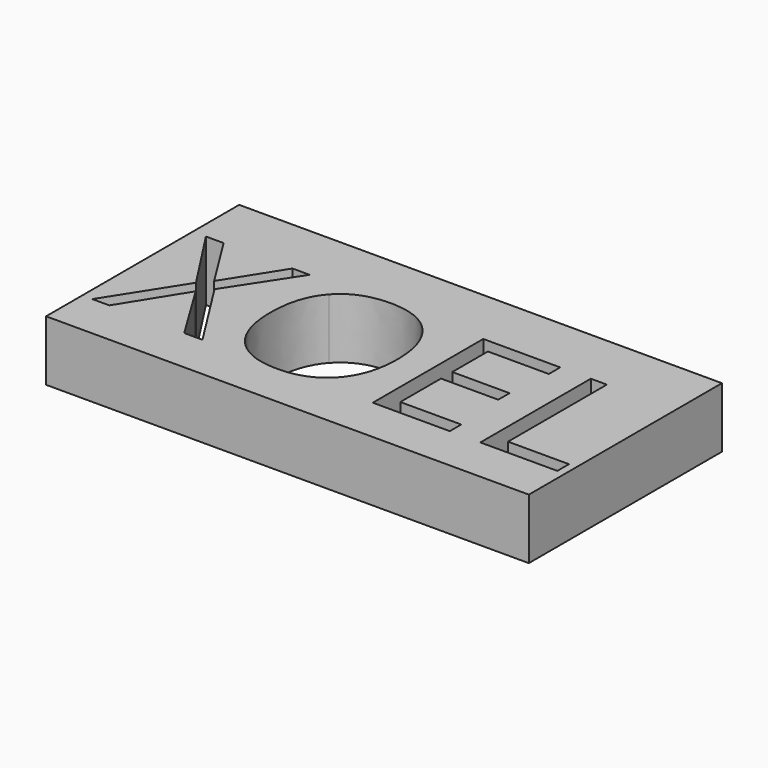
from build123d import *

# Parameters (mm, degrees)
F0_W     = 7.3027783253
F0_H     = 2
F1_DEPTH = 5


with BuildPart() as f1:
    # F0 (on Top) → F1 (new body)
    with BuildSketch(Plane.XY):
        Polygon((-6.9230771488, 20), (-32.6972216747, 20), (-32.6972216747, 18), (-40, 18), (-40, 0), (0, 0), (0, 20), align=None)
        Polygon((-33.8621847978, 9.7746401855), (-30.0435746334, 3.750000149), (-31.5534906525, 3.750000149), (-34.6284108374, 8.7805495395), (-37.7584191689, 3.750000149), (-39.1681749214, 3.750000149), (-35.364588797, 9.7295680656), (-38.9102622349, 15.1908066024), (-37.4379063158, 15.1908066024), (-34.5983627574, 10.6585545384), (-31.7337791324, 15.1908066024), (-30.3190153665, 15.1908066024), align=None, mode=Mode.SUBTRACT)
        with BuildLine():
            add(Edge.make_bspline(
                [(-19.8622835325, 13.8060909166), (-18.4775678467, 12.2410867508), (-18.4775678467, 9.486679419)],
                knots=[0, 0, 0, 1, 1, 1], degree=2))
            add(Edge.make_bspline(
                [(-18.4775678467, 9.486679419), (-18.4775678467, 6.7397841073), (-19.8672915459, 5.1660159182)],
                knots=[0, 0, 0, 1, 1, 1], degree=2))
            add(Edge.make_bspline(
                [(-19.8672915459, 5.1660159182), (-21.2570152451, 3.5922477291), (-23.7284698237, 3.5922477291)],
                knots=[0, 0, 0, 1, 1, 1], degree=2))
            add(Edge.make_bspline(
                [(-23.7284698237, 3.5922477291), (-26.2550125489, 3.5922477291), (-27.6284602047, 5.1384718449)],
                knots=[0, 0, 0, 1, 1, 1], degree=2))
            add(Edge.make_bspline(
                [(-27.6284602047, 5.1384718449), (-29.0019078606, 6.6846959607), (-29.0019078606, 9.501703459)],
                knots=[0, 0, 0, 1, 1, 1], degree=2))
            add(Edge.make_bspline(
                [(-29.0019078606, 9.501703459), (-29.0019078606, 12.2961748974), (-27.6247041947, 13.8336349899)],
                knots=[0, 0, 0, 1, 1, 1], degree=2))
            add(Edge.make_bspline(
                [(-27.6247041947, 13.8336349899), (-26.2475005289, 15.3710950823), (-23.7134457837, 15.3710950823)],
                knots=[0, 0, 0, 1, 1, 1], degree=2))
            add(Edge.make_bspline(
                [(-23.7134457837, 15.3710950823), (-21.2469992184, 15.3710950823), (-19.8622835325, 13.8060909166)],
                knots=[0, 0, 0, 1, 1, 1], degree=2))
        make_face(mode=Mode.SUBTRACT)
        Polygon((-9.5507840851, 4.939403315), (-9.5507840851, 3.750000149), (-15.9284890615, 3.750000149), (-15.9284890615, 15.1908066024), (-9.5507840851, 15.1908066024), (-9.5507840851, 14.0089154564), (-14.5988615222, 14.0089154564), (-14.5988615222, 10.3230176452), (-9.8562728983, 10.3230176452), (-9.8562728983, 9.1486385192), (-14.5988615222, 9.1486385192), (-14.5988615222, 4.939403315), align=None, mode=Mode.SUBTRACT)
        Polygon((-0.6390243636, 3.750000149), (-7.0167293399, 3.750000149), (-7.0167293399, 15.1908066024), (-5.6871018007, 15.1908066024), (-5.6871018007, 4.954427355), (-0.6390243636, 4.954427355), align=None, mode=Mode.SUBTRACT)
        with BuildLine():
            ThreePointArc((-4.5192325674, 17.596155405), (-8.6228519812, 15.8963805958), (-6.9230771488, 20))
            ThreePointArc((-6.9230771488, 20), (-5.2233023436, 19.2959302143), (-4.5192325674, 17.596155405))
        make_face(mode=Mode.SUBTRACT)
        with BuildLine():
            ThreePointArc((-4.5192325674, 17.596155405), (-5.2233023436, 19.2959302143), (-6.9230771488, 20))
            ThreePointArc((-6.9230771488, 20), (-8.6228519812, 15.8963805958), (-4.5192325674, 17.596155405))
        make_face()
        with Locations((-36.3486108374, 19)):
            Rectangle(F0_W, F0_H)
    extrude(amount=F1_DEPTH)


solid = f1.part
